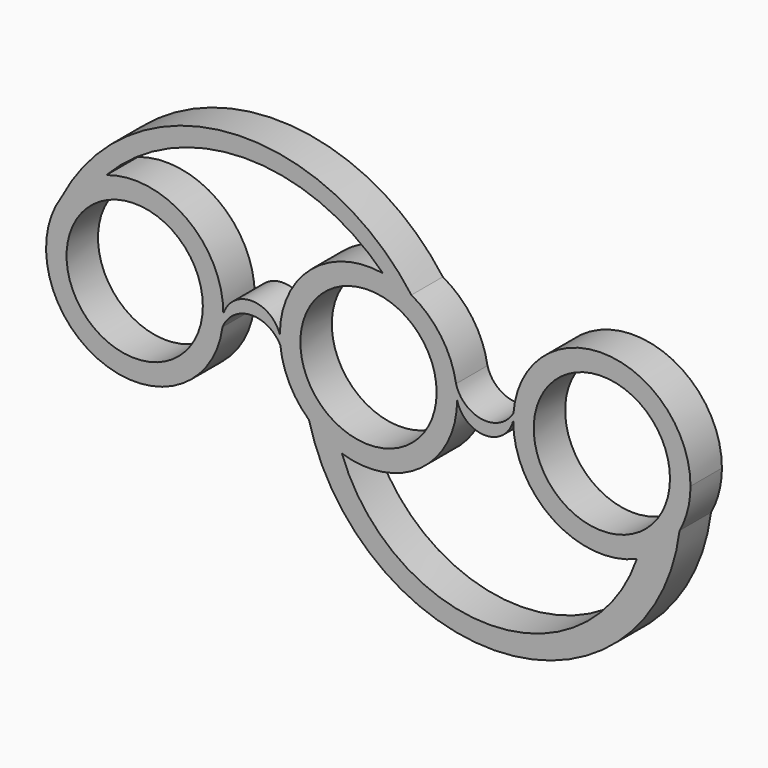
from build123d import *

# Parameters (mm, degrees)
F0_R     = 11.0109
F1_DEPTH = 6.35


with BuildPart() as f1:
    # F0 (on Front) → F1 (new body)
    with BuildSketch(Plane.XZ):
        with BuildLine():
            ThreePointArc((-23.59285, -1.953971), (-23.492485, -0.979276), (-23.458977, 0))
            ThreePointArc((-23.458977, 0), (-29.427212, 11.635782), (-42.359437, 13.577124))
            ThreePointArc((-42.359437, 13.577124), (-46.437545, 11.419433), (-49.618401, 8.077465))
            ThreePointArc((-49.618401, 8.077465), (-42.938447, -13.36812), (-23.59285, -1.953971))
        make_face()
        with Locations((-37.785763, 0)):
            Circle(F0_R, mode=Mode.SUBTRACT)
        with BuildLine():
            ThreePointArc((-14.326785, 0), (-18.892881, 3.318531), (-23.458977, 0))
            ThreePointArc((-23.458977, 0), (-23.492485, -0.979276), (-23.59285, -1.953971))
            ThreePointArc((-23.59285, -1.953971), (-19.072022, 1.264356), (-14.249921, -1.482069))
            ThreePointArc((-14.249921, -1.482069), (-14.307556, -0.74203), (-14.326785, 0))
        make_face()
        with BuildLine():
            ThreePointArc((-49.618401, 8.077465), (-46.437545, 11.419433), (-42.359437, 13.577124))
            ThreePointArc((-42.359437, 13.577124), (-20.128836, 23.273774), (2.336828, 14.134922))
            ThreePointArc((2.336828, 14.134922), (4.70492, 13.532203), (6.936142, 12.535817))
            ThreePointArc((6.936142, 12.535817), (-22.584231, 26.075474), (-49.618401, 8.077465))
        make_face()
        with BuildLine():
            ThreePointArc((2.336828, 14.134922), (-9.26762, 10.925567), (-14.326785, 0))
            ThreePointArc((-14.326785, 0), (-14.307556, -0.74203), (-14.249921, -1.482069))
            ThreePointArc((-14.249921, -1.482069), (-12.773473, -6.488079), (-9.601831, -10.633044))
            ThreePointArc((-9.601831, -10.633044), (-7.116827, -12.434129), (-4.305234, -13.664616))
            ThreePointArc((-4.305234, -13.664616), (8.472798, -11.552856), (14.326785, 0))
            ThreePointArc((14.326785, 0), (14.282197, 1.129432), (14.148711, 2.251834))
            ThreePointArc((14.148711, 2.251834), (11.729571, 8.226418), (6.936142, 12.535817))
            ThreePointArc((6.936142, 12.535817), (4.70492, 13.532203), (2.336828, 14.134922))
        make_face()
        Circle(F0_R, mode=Mode.SUBTRACT)
        with BuildLine():
            ThreePointArc((-4.305234, -13.664616), (-7.116827, -12.434129), (-9.601831, -10.633044))
            ThreePointArc((-9.601831, -10.633044), (21.893334, -33.595534), (50.27998, -6.885616))
            ThreePointArc((50.27998, -6.885616), (47.35105, -10.60326), (43.370692, -13.163779))
            ThreePointArc((43.370692, -13.163779), (19.709877, -30.277336), (-4.305234, -13.664616))
        make_face()
        with BuildLine():
            ThreePointArc((23.432201, 1.104606), (18.405554, -1.43645), (14.148711, 2.251834))
            ThreePointArc((14.148711, 2.251834), (14.282197, 1.129432), (14.326785, 0))
            ThreePointArc((14.326785, 0), (18.85817, -3.55947), (23.389554, 0))
            ThreePointArc((23.389554, 0), (23.40022, 0.552714), (23.432201, 1.104606))
        make_face()
        with BuildLine():
            ThreePointArc((43.370692, -13.163779), (47.35105, -10.60326), (50.27998, -6.885616))
            ThreePointArc((50.27998, -6.885616), (51.595341, -3.553885), (52.043125, 0))
            ThreePointArc((52.043125, 0), (38.269054, 14.31612), (23.432201, 1.104606))
            ThreePointArc((23.432201, 1.104606), (23.40022, 0.552714), (23.389554, 0))
            ThreePointArc((23.389554, 0), (29.834459, -11.96381), (43.370692, -13.163779))
        make_face()
        with Locations((37.71634, 0)):
            Circle(F0_R, mode=Mode.SUBTRACT)
    extrude(amount=F1_DEPTH)


solid = f1.part
